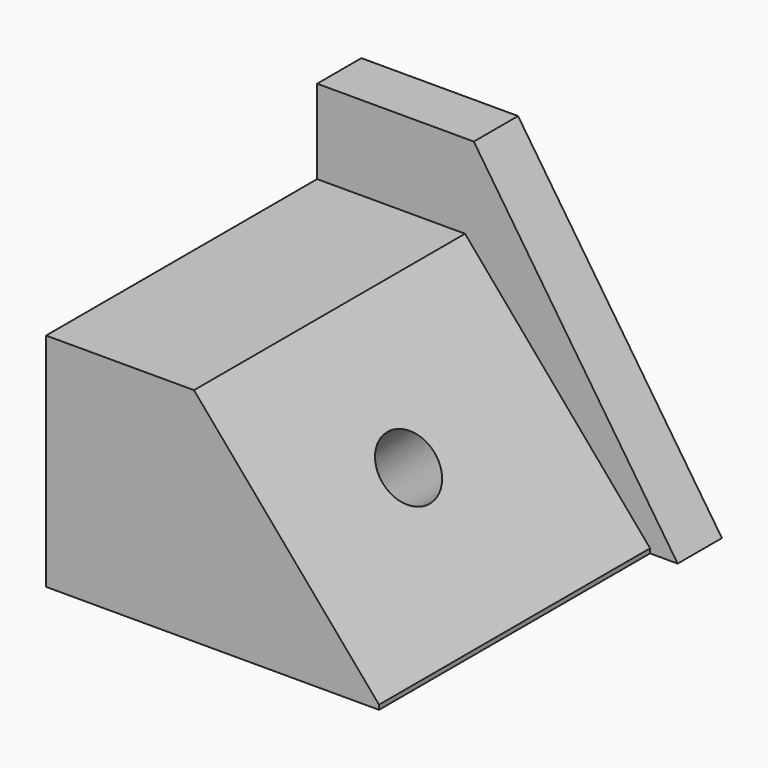
from build123d import *

# Parameters (mm, degrees)
F0_W     = 76.4351114631
F0_H     = 77.7774527669
F1_DEPTH = 50.8
F3_DEPTH = 77.7784527669
F4_R     = 7.4764365624
F5_DEPTH = 58.8116741145
F6_W     = 82.7689305879
F6_H     = 70.0802728534
F7_DEPTH = 12.7
F9_DEPTH = 90.4784527669


with BuildPart() as f1:
    # F0 (on Top) → F1 (new body)
    with BuildSketch(Plane.XY):
        with Locations((-38.2175557315, -38.8887263834)):
            Rectangle(F0_W, F0_H)
    extrude(amount=F1_DEPTH)

    # F2 (on face) → F3 (cut, through all)
    with BuildSketch(Plane.XZ.offset(77.7774527669)):
        Polygon((15.4465576634, -17.0485954732), (15.4465576634, 50.8), (-42.4766093493, 50.8), align=None)
    extrude(amount=-F3_DEPTH, mode=Mode.SUBTRACT)

    # F4 (on face) → F5 (cut, through all)
    with BuildSketch(Plane(origin=(0.5159375483, 0, 0.4404621285), x_dir=(0, 1, 0), z_dir=(0.760544385, 0, 0.6492859451))):
        with Locations((-41.5946096182, 34.9290184677)):
            Circle(F4_R)
    extrude(amount=-F5_DEPTH, mode=Mode.SUBTRACT)

    # F6 (on face) → F7 (join)
    with BuildSketch(Plane(origin=(0, 0, 0), x_dir=(-1, 0, 0), z_dir=(0, 1, 0))):
        with Locations((35.0506461691, 35.0401364267)):
            Rectangle(F6_W, F6_H)
    extrude(amount=F7_DEPTH)

    # F8 (on face) → F9 (cut, through all)
    with BuildSketch(Plane(origin=(0, 12.7, 0), x_dir=(-1, 0, 0), z_dir=(0, 1, 0))):
        Polygon((40.4624007642, 70.0802728534), (-6.3338191248, 70.0802728534), (-6.3338191248, 35.0401364267), align=None)
        Polygon((-6.3338191248, 0), (40.4624007642, 70.0802728534), (-6.3338191248, 35.0401364267), align=None)
    extrude(amount=-F9_DEPTH, mode=Mode.SUBTRACT)


solid = f1.part
